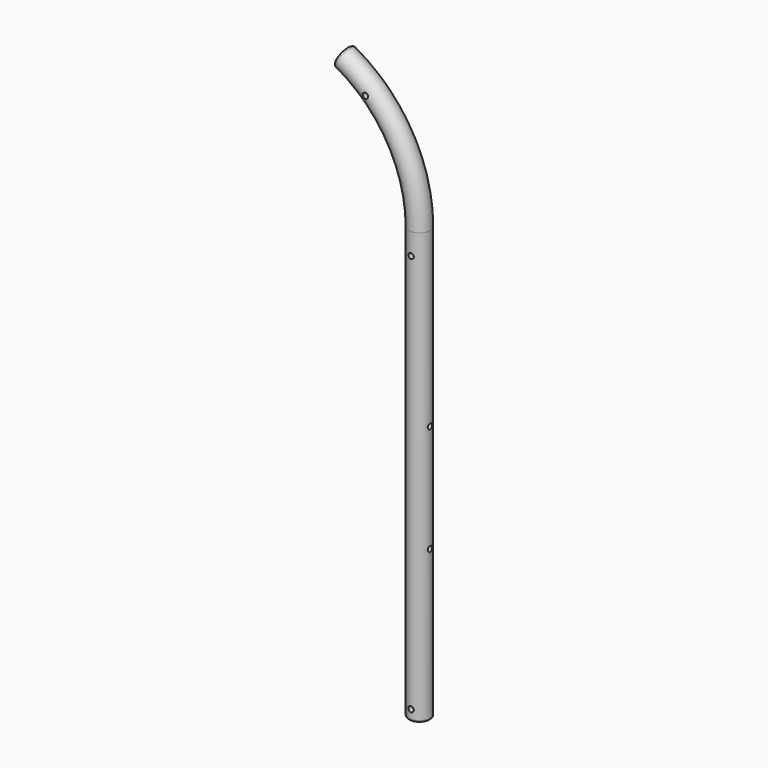
from build123d import *

# Parameters (mm, degrees)
F1_R           = 12.7
F3_R           = 2.54
F6_DEPTH       = 6.35
F6_DEPTH_BACK  = 31.75
F7_R           = 3.175
F8_DEPTH       = 40.64
F10_R          = 3.175
F11_DEPTH      = 6.35
F12_R          = 3.175
F13_DEPTH      = 19.05
F13_DEPTH_BACK = 25.4
F15_DEPTH      = 25.4
F15_DEPTH_BACK = 25.4


with BuildPart() as f2:
    # F2: sweep along a path in F0
    with BuildLine(Plane.XZ) as f2_path:
        ThreePointArc((-89.2972339832, 656.59), (-24.04175279, 594.6789825982), (0, 508))
        Line((0, 508), (0, 0))
    # F1 (on Top) → F2 (sweep)
    with BuildSketch(Plane.XY):
        Circle(F1_R)
    sweep(path=f2_path.line)

    # F3
    f3_edges = [f2.edges().sort_by_distance(p)[0] for p in [
        (-95.25782, 0, 645.37566),
        (-12.7, 0, 0),
    ]]
    fillet(f3_edges, radius=F3_R)

    # F5 (on offset) → F6 (cut, two sides)
    with BuildSketch(Plane.XZ.offset(12.7)) as f6_sk:
        with BuildLine():
            ThreePointArc((0, 479.425), (2.2450640303, 480.3549359697), (3.175, 482.6))
            ThreePointArc((3.175, 482.6), (-2.2450640303, 484.8450640303), (0, 479.425))
        make_face()
    extrude(amount=F6_DEPTH, mode=Mode.SUBTRACT)
    extrude(f6_sk.sketch, amount=-F6_DEPTH_BACK, mode=Mode.SUBTRACT)

    # F7 (on offset) → F8 (cut)
    with BuildSketch(Plane.XZ.offset(12.7)):
        with Locations((-53.642109759, 631.19)):
            Circle(F7_R)
    extrude(amount=-F8_DEPTH, mode=Mode.SUBTRACT)

    # F10 (on offset) → F11 (cut)
    with BuildSketch(Plane.XZ.offset(-12.7)):
        with Locations((-53.642109759, 631.19)):
            Circle(F10_R)
    extrude(amount=F11_DEPTH, mode=Mode.SUBTRACT)

    # F12 (on Right) → F13 (cut, two sides)
    with BuildSketch(Plane.YZ) as f13_sk:
        with Locations((0, 304.8)):
            Circle(F12_R)
        with Locations((0, 177.8)):
            Circle(F12_R)
    extrude(amount=F13_DEPTH, mode=Mode.SUBTRACT)
    extrude(f13_sk.sketch, amount=-F13_DEPTH_BACK, mode=Mode.SUBTRACT)

    # F14 (on Front) → F15 (cut, two sides)
    with BuildSketch(Plane.XZ) as f15_sk:
        with BuildLine():
            ThreePointArc((0, 9.525), (2.2450640303, 10.4549359697), (3.175, 12.7))
            ThreePointArc((3.175, 12.7), (-2.2450640303, 14.9450640303), (0, 9.525))
        make_face()
    extrude(amount=-F15_DEPTH, mode=Mode.SUBTRACT)
    extrude(f15_sk.sketch, amount=F15_DEPTH_BACK, mode=Mode.SUBTRACT)


solid = f2.part
